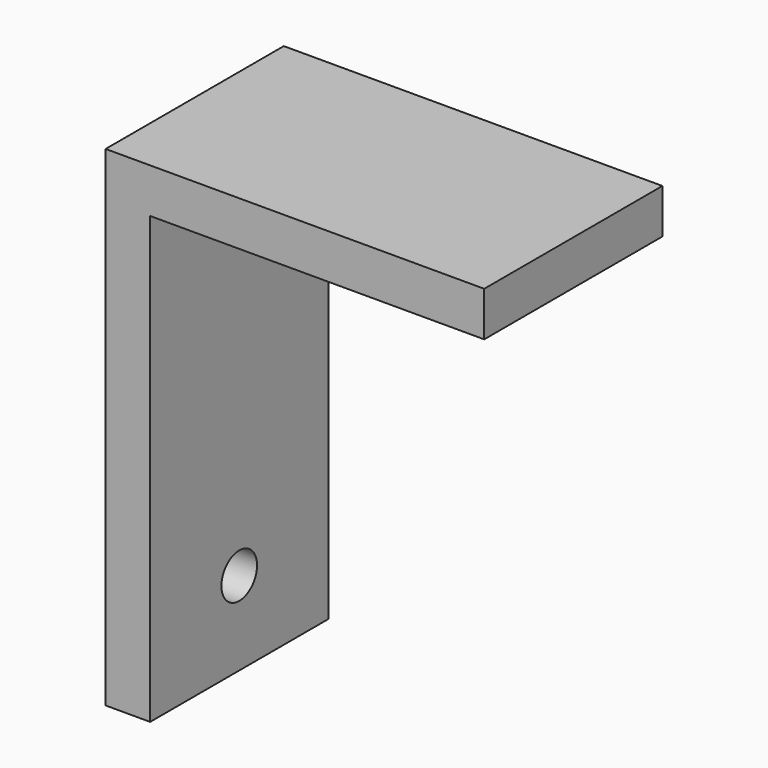
from build123d import *

# Parameters (mm, degrees)
F0_W     = 38.1
F0_H     = 5.08
F1_DEPTH = 25.4
F2_R     = 2.54
F3_DEPTH = 25.4


with BuildPart() as f1:
    # F0 (on Front) → F1 (new body)
    with BuildSketch(Plane.XZ):
        with Locations((24.13, 53.34)):
            Rectangle(F0_W, F0_H)
        Polygon((0, 55.88), (0, 0), (5.08, 0), (5.08, 50.8), (5.08, 55.88), align=None)
    extrude(amount=F1_DEPTH)

    # F2 (on face) → F3 (cut)
    with BuildSketch(Plane(origin=(0, 0, 0), x_dir=(0, -1, 0), z_dir=(-1, 0, 0))):
        with Locations((12.7, 9.525)):
            Circle(F2_R)
    extrude(amount=-F3_DEPTH, mode=Mode.SUBTRACT)


solid = f1.part
